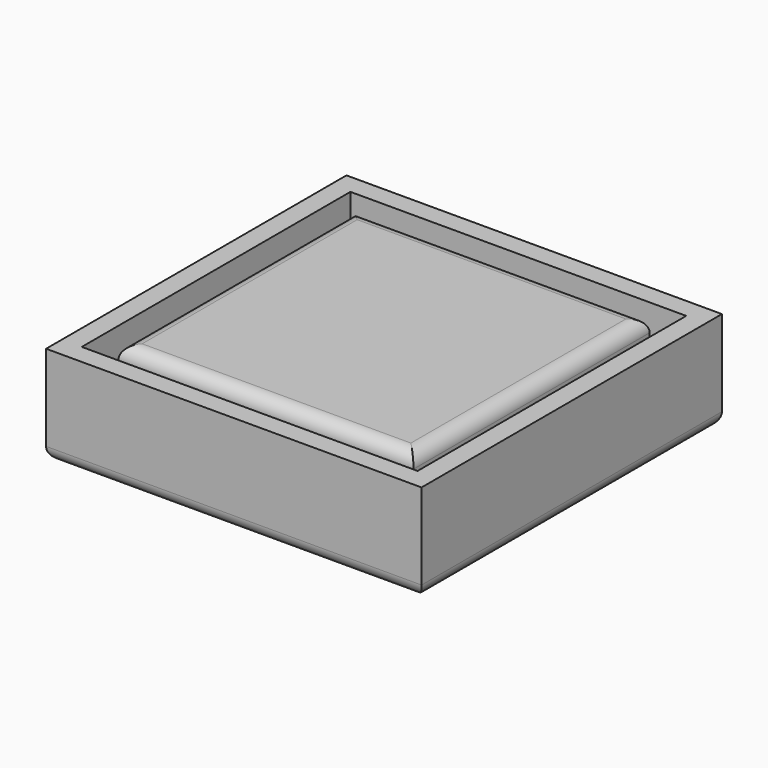
from build123d import *

# Parameters (mm, degrees)
F0_W     = 50.8
F0_H     = 50.8
F0_W_2   = 44.65
F0_H_2   = 44.65
F1_DEPTH = 3
F0_W_3   = 56.8
F0_H_3   = 56.8
F2_DEPTH = 15
F3_R     = 2
F4_R     = 2
F5_R     = 10
F6_DEPTH = 12
F7_R     = 1


with BuildPart() as f1:
    # F0 (on Top) → F1 (new body)
    with BuildSketch(Plane.XY):
        Rectangle(F0_W, F0_H)
        Rectangle(F0_W_2, F0_H_2, mode=Mode.SUBTRACT)
    extrude(amount=F1_DEPTH)

    # F0 (on Top) → F2 (join)
    with BuildSketch(Plane.XY):
        Rectangle(F0_W_3, F0_H_3)
        Rectangle(F0_W, F0_H, mode=Mode.SUBTRACT)
        Rectangle(F0_W_2, F0_H_2)
    extrude(amount=F2_DEPTH)

    # F3
    f3_edges = [f1.edges().sort_by_distance(p)[0] for p in [
        (22.325, 0, 15),
        (0, 22.325, 15),
        (-22.325, 0, 15),
        (0, -22.325, 15),
    ]]
    fillet(f3_edges, radius=F3_R)

    # F4
    f4_edges = [f1.edges().sort_by_distance(p)[0] for p in [
        (28.4, 0, 0),
        (0, 28.4, 0),
        (-28.4, 0, 0),
        (0, -28.4, 0),
    ]]
    fillet(f4_edges, radius=F4_R)

    # F5 (on face) → F6 (cut)
    with BuildSketch(Plane(origin=(0, 0, 0), x_dir=(1, 0, 0), z_dir=(0, 0, -1))):
        Circle(F5_R)
    extrude(amount=-F6_DEPTH, mode=Mode.SUBTRACT)

    # F7
    f7_edges = [f1.edges().sort_by_distance(p)[0] for p in [
        (10, 0, 6),
        (-10, 0, 0),
        (-10, 0, 12),
    ]]
    fillet(f7_edges, radius=F7_R)


solid = f1.part
